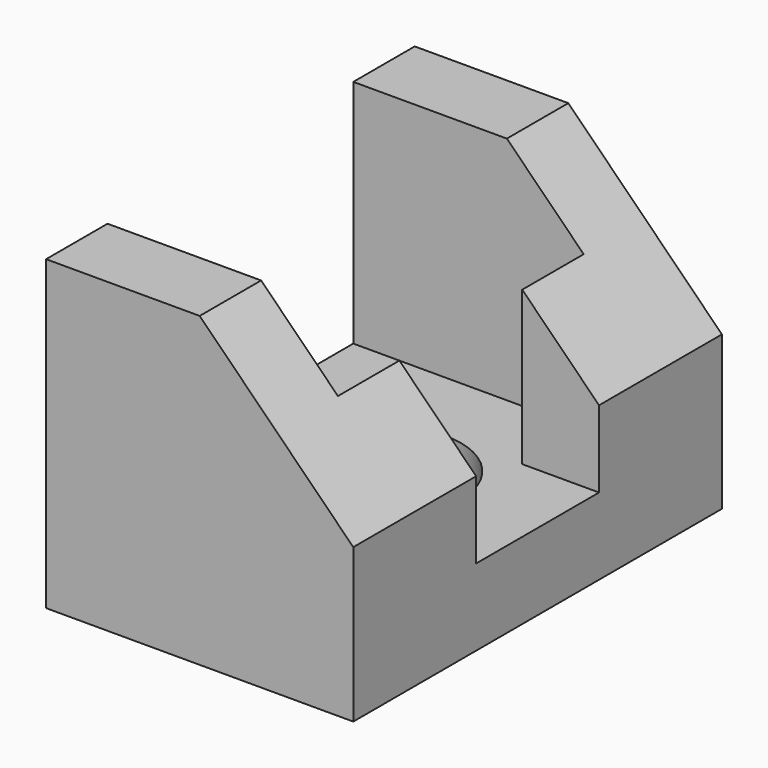
from build123d import *

# Parameters (mm, degrees)
F1_DEPTH = 30
F3_DEPTH = 30
F4_R     = 10
F5_DEPTH = 25


with BuildPart() as f1:
    # F0 (on Front) → F1 (new body, symmetric)
    with BuildSketch(Plane.XZ):
        Polygon((0, 40), (-20, 40), (-20, 0), (20, 0), (20, 20), align=None)
    extrude(amount=F1_DEPTH, both=True)

    # F2 (on face) → F3 (cut)
    with BuildSketch(Plane.XY.offset(40)):
        Polygon((10, 20), (-20, 20), (-20, -20), (10, -20), (10, -10), (20, -10), (20, 10), (10, 10), align=None)
    extrude(amount=-F3_DEPTH, mode=Mode.SUBTRACT)

    # F4 (on face) → F5 (cut)
    with BuildSketch(Plane.XY.offset(10)):
        Circle(F4_R)
    extrude(amount=-F5_DEPTH, mode=Mode.SUBTRACT)


solid = f1.part
